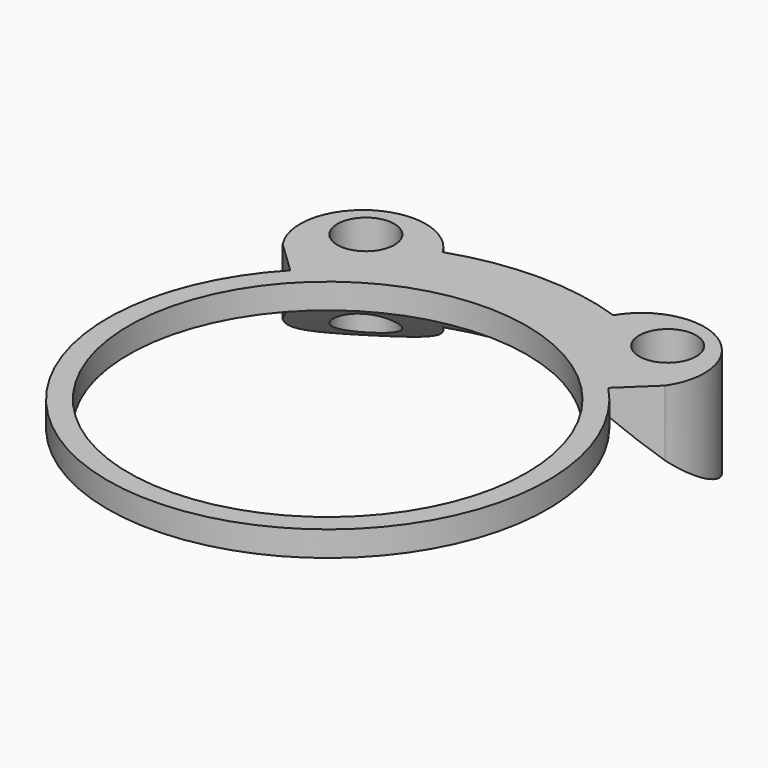
from build123d import *

# Parameters (mm, degrees)
SKETCH_R   = 5.175
SKETCH_R_2 = 36.1
PAD_DEPTH  = 20


with BuildPart() as chamfer_cutout_right:
    # Sketch002 → Revolution (revolve)
    with BuildSketch(Plane.YZ):
        with BuildLine():
            Line((36.1, 15.427249), (39.9, 15.427249))
            ThreePointArc((39.9, 15.427249), (48.804267, 7.330048), (58.35, 0))
            Line((58.35, 0), (58.35, -5))
            Line((58.35, -5), (36.1, -5))
            Line((36.1, -5), (36.1, 15.427249))
        make_face()
    revolve(axis=Axis((0, 0, 0), (0, 0, 1)))


with BuildPart() as spacer_right:
    # Sketch → Pad (new body)
    with BuildSketch(Plane.XY):
        with BuildLine():
            ThreePointArc((-15.484484, 45.433806), (-31.397174, 49.18272), (-34.694729, 33.170405))
            Line((-28.839993, 27.572899), (-34.694729, 33.170405))
            ThreePointArc((-28.839993, 27.572899), (0, -39.9), (28.839993, 27.572899))
            Line((28.839993, 27.572899), (34.694729, 33.170405))
            ThreePointArc((34.694729, 33.170405), (31.397174, 49.18272), (15.484484, 45.433806))
            ThreePointArc((15.484484, 45.433806), (0, 48), (-15.484484, 45.433806))
        make_face()
        with Locations((-27.375, 42.882106)):
            Circle(SKETCH_R, mode=Mode.SUBTRACT)
        with Locations((27.375, 42.882106)):
            Circle(SKETCH_R, mode=Mode.SUBTRACT)
        Circle(SKETCH_R_2, mode=Mode.SUBTRACT)
    extrude(amount=PAD_DEPTH)

    # Cut: cut chamfer_cutout_right
    add(chamfer_cutout_right.part, mode=Mode.SUBTRACT)


solid = spacer_right.part
